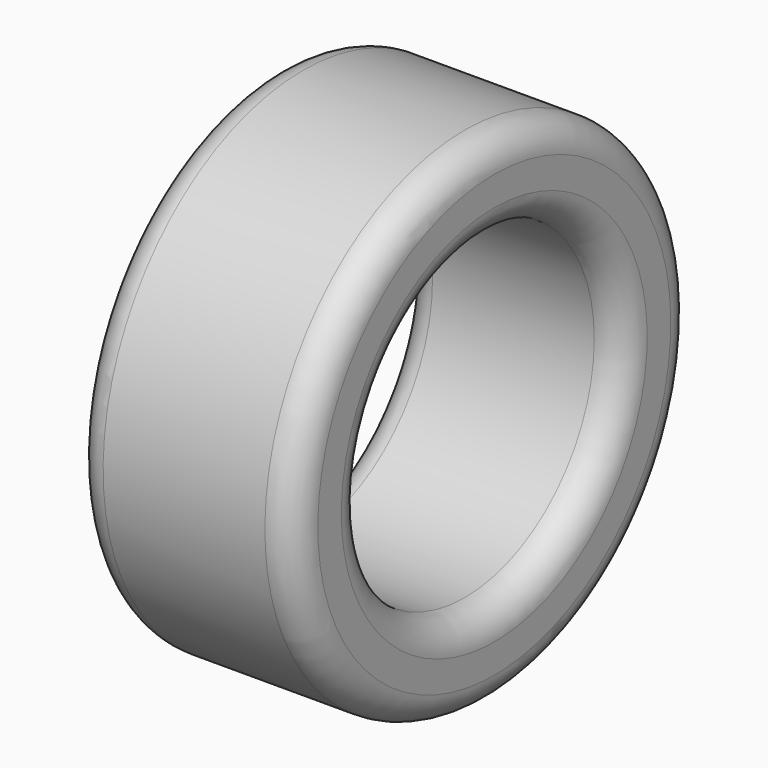
from build123d import *


with BuildPart() as f1:
    # F0 (on Front) → F1 (revolve)
    with BuildSketch(Plane.XZ):
        with BuildLine():
            Line((125.238902, 90.889087), (-154.161098, 90.889087))
            ThreePointArc((-154.161098, 90.889087), (-190.082123, 76.010112), (-204.961098, 40.089087))
            Line((-204.961098, 40.089087), (-204.961098, -10.710913))
            ThreePointArc((-204.961098, -10.710913), (-190.082123, -46.631937), (-154.161098, -61.510913))
            Line((-154.161098, -61.510913), (125.238902, -61.510913))
            ThreePointArc((125.238902, -61.510913), (161.159926, -46.631937), (176.038902, -10.710913))
            Line((176.038902, -10.710913), (176.038902, 40.089087))
            ThreePointArc((176.038902, 40.089087), (161.159926, 76.010112), (125.238902, 90.889087))
        make_face()
    revolve(axis=Axis((-38.110964, 0, -340.910913), (1, 0, 0)))


solid = f1.part
